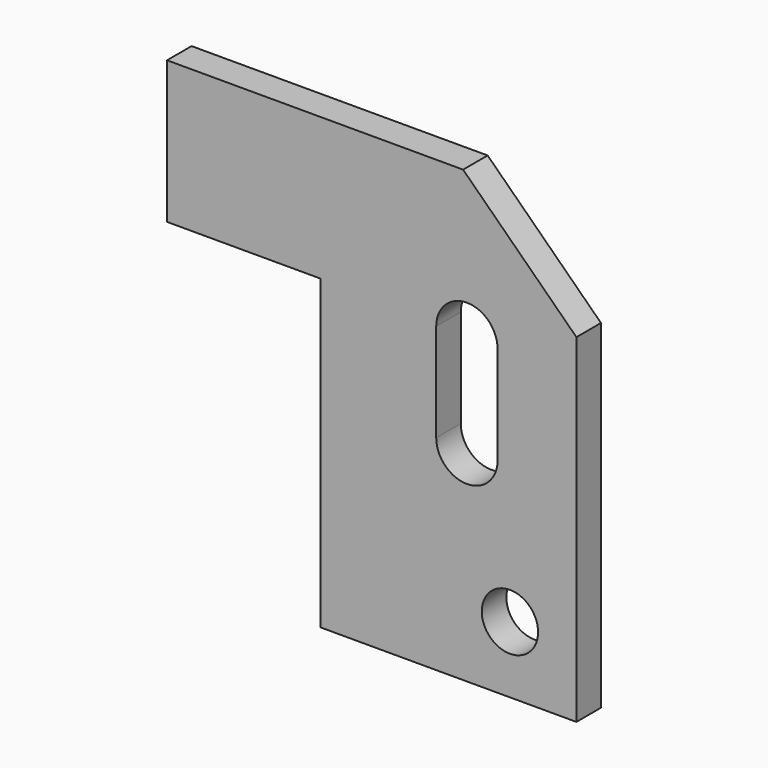
from build123d import *

# Parameters (mm, degrees)
F0_R     = 11
F1_DEPTH = 12


with BuildPart() as f1:
    # F0 (on Front) → F1 (new body)
    with BuildSketch(Plane.XZ):
        Polygon((63.364859, 34.506369), (19.077511, 77.736151), (-96.635141, 77.736151), (-96.635141, 22.119883), (-36.635141, 22.119883), (-36.635141, -97.880117), (63.364859, -97.880117), align=None)
        with Locations((37.38328, -71.880117)):
            Circle(F0_R, mode=Mode.SUBTRACT)
        with BuildLine():
            ThreePointArc((8.573454, 20.451693), (20.567257, 32.445496), (32.56106, 20.451693))
            Line((32.56106, 20.451693), (32.56106, -17.941452))
            ThreePointArc((32.56106, -17.941452), (20.567257, -29.935255), (8.573454, -17.941452))
            Line((8.573454, -17.941452), (8.573454, 20.451693))
        make_face(mode=Mode.SUBTRACT)
    extrude(amount=F1_DEPTH)


solid = f1.part
